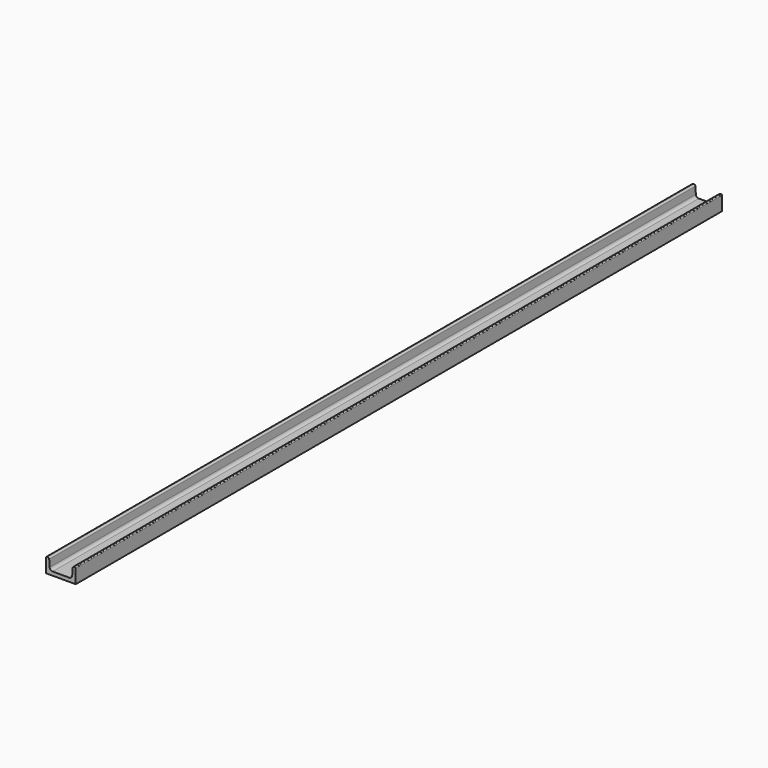
from build123d import *

# Parameters (mm, degrees)
F1_DEPTH = 1090


with BuildPart() as f1:
    # F0 (on Front) → F1 (new body)
    with BuildSketch(Plane.XZ):
        with BuildLine():
            Line((-29.841657, 19.006058), (-29.956796, 0))
            Line((-29.956796, 0), (10.043204, 0))
            Line((10.043204, 0), (10.043204, 19))
            ThreePointArc((10.043204, 19), (9.750311, 19.707107), (9.043204, 20))
            Line((9.043204, 20), (7.918096, 20))
            ThreePointArc((7.918096, 20), (6.550256, 19.459114), (5.922262, 18.129013))
            Line((5.922262, 18.129013), (5.315472, 8.741974))
            ThreePointArc((5.315472, 8.741974), (4.059483, 6.081772), (1.323803, 5))
            Line((1.323803, 5), (-21.161531, 5))
            ThreePointArc((-21.161531, 5), (-23.903058, 6.087264), (-25.154203, 8.757985))
            Line((-25.154203, 8.757985), (-25.721741, 18.121007))
            ThreePointArc((-25.721741, 18.121007), (-26.347313, 19.456368), (-27.718077, 20))
            Line((-27.718077, 20), (-28.841675, 20))
            ThreePointArc((-28.841675, 20), (-29.546637, 19.709245), (-29.841657, 19.006058))
        make_face()
    extrude(amount=F1_DEPTH)


solid = f1.part
